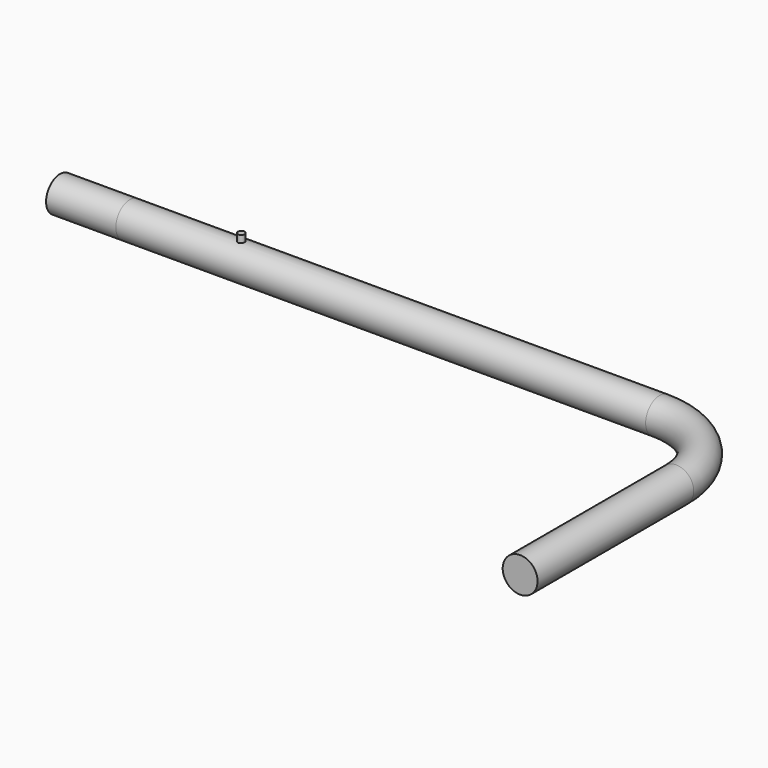
from build123d import *

# Parameters (mm, degrees)
F2_R     = 15.875
F4_R     = 3.175
F5_DEPTH = 22.225
F6_R     = 15.875
F7_DEPTH = 63.5


with BuildPart() as f3:
    # F3: sweep along a path in F0
    with BuildLine(Plane.XY) as f3_path:
        Line((-152.4, 0), (0, 0))
        Line((0, 0), (330.2, 0))
        ThreePointArc((330.2, 0), (384.0815367264, -22.3184632736), (406.4, -76.2))
        Line((406.4, -76.2), (406.4, -254))
    # F2 (on offset) → F3 (sweep)
    with BuildSketch(Plane.XZ.offset(254)):
        with Locations((406.4, 0)):
            Circle(F2_R)
    sweep(path=f3_path.line)

    # F4 (on Top) → F5 (join)
    with BuildSketch(Plane.XY):
        with Locations((-50.8, 0)):
            Circle(F4_R)
    extrude(amount=F5_DEPTH)

    # F6 (on face) → F7 (join)
    with BuildSketch(Plane(origin=(-152.4, 0, 0), x_dir=(0, -1, 0), z_dir=(-1, 0, 0))):
        Circle(F6_R)
    extrude(amount=F7_DEPTH)


solid = f3.part
